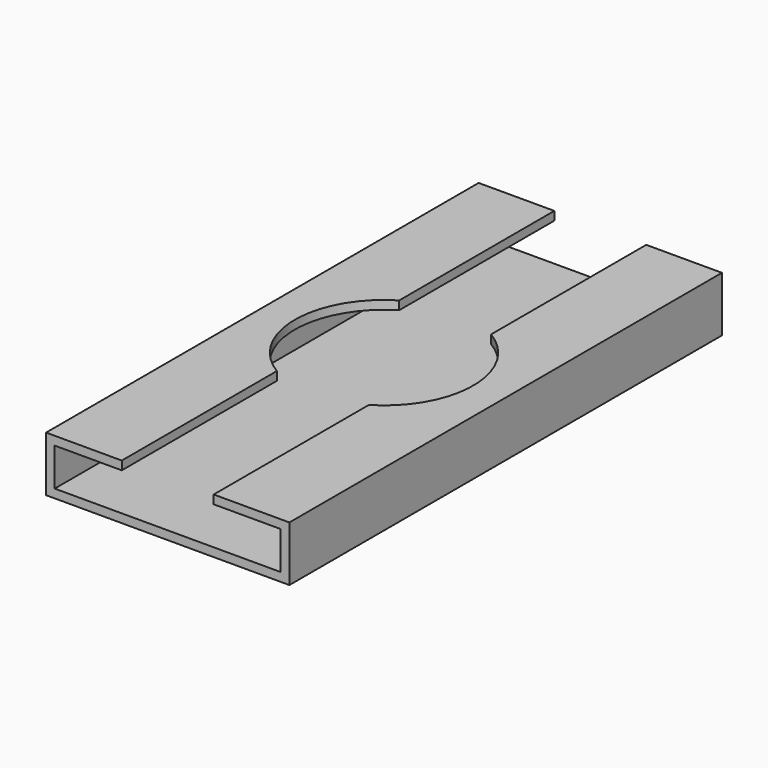
from build123d import *

# Parameters (mm, degrees)
F0_W     = 45
F0_H     = 100
F1_DEPTH = 10.2
F2_W     = 17
F2_H     = 100
F3_DEPTH = 8.6
F4_W     = 41.8
F4_H     = 100
F5_DEPTH = 7
F8_R     = 16.5
F9_DEPTH = 10


with BuildPart() as f1:
    # F0 (on Top) → F1 (new body)
    with BuildSketch(Plane.XY):
        with Locations((-33.835356, -14.808846)):
            Rectangle(F0_W, F0_H)
    extrude(amount=F1_DEPTH)

    # F2 (on face) → F3 (cut)
    with BuildSketch(Plane.XY.offset(10.2)):
        with Locations((-33.835356, -14.808846)):
            Rectangle(F2_W, F2_H)
    extrude(amount=-F3_DEPTH, mode=Mode.SUBTRACT)


with BuildPart() as f5:
    # F4 (on Top) → F5 (new body)
    with BuildSketch(Plane.XY):
        with Locations((-35.435356, -14.808846)):
            Rectangle(F4_W, F4_H)
    extrude(amount=F5_DEPTH)


with BuildPart() as f5_1:
    # F6: moved
    add(f5.part.moved(Location((1.6, 0, 1.6))))


with BuildPart() as f1_1:
    add(f1.part)

    # F7: cut F5
    add(f5_1.part, mode=Mode.SUBTRACT)


with BuildPart() as f9:
    # F8 (on Top) → F9 (new body)
    with BuildSketch(Plane.XY):
        with Locations((-33.835356, -64.808846)):
            Circle(F8_R)
    extrude(amount=F9_DEPTH)


with BuildPart() as f9_1:
    # F10: moved
    add(f9.part.moved(Location((0, 50, 4))))


with BuildPart() as f1_2:
    add(f1_1.part)

    # F11: cut F9
    add(f9_1.part, mode=Mode.SUBTRACT)


solid = f1_2.part
